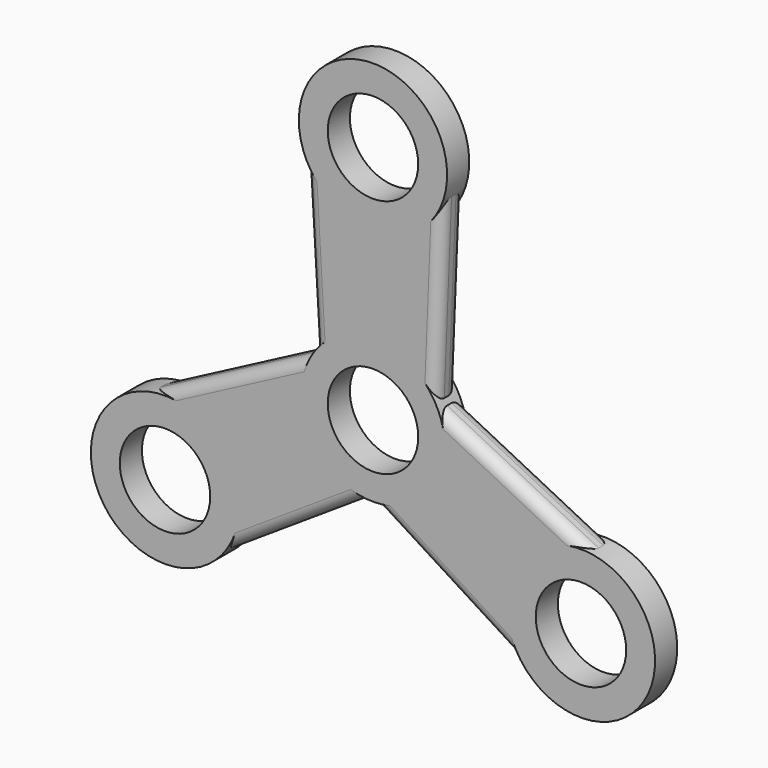
from build123d import *

# Parameters (mm, degrees)
F0_R     = 10.3857806341
F0_R_2   = 10.3786468128
F1_DEPTH = 6.35
F2_R     = 2.54
F3_R     = 2.54


with BuildPart() as f1:
    # F0 (on Front) → F1 (new body)
    with BuildSketch(Plane.XZ):
        with BuildLine():
            Line((14.3325142405, 8.0979142801), (16.0034097486, 49.3313107205))
            ThreePointArc((16.0034097486, 49.3313107205), (-0.4850827816, 72.1303829543), (-15.6475718809, 48.4287584328))
            Line((-15.6475718809, 48.4287584328), (-13.390063044, 9.576188794))
            ThreePointArc((-13.390063044, 9.576188794), (-13.7979919658, 8.9784518628), (-14.1792566045, 8.3633642923))
            ThreePointArc((-14.1792566045, 8.3633642923), (-14.6745633827, -7.4601856322), (-1.598191245, -16.3842291514))
            ThreePointArc((-1.598191245, -16.3842291514), (-0.876571417, -16.438637495), (-0.153257636, -16.4612785724))
            ThreePointArc((-0.153257636, -16.4612785724), (13.7979919658, -8.9784518628), (14.988254289, 6.8080403574))
            ThreePointArc((14.988254289, 6.8080403574), (14.6745633827, 7.4601856322), (14.3325142405, 8.0979142801))
        make_face()
        Circle(F0_R, mode=Mode.SUBTRACT)
        with Locations((0, 55.1193505526)):
            Circle(F0_R_2, mode=Mode.SUBTRACT)
        with BuildLine():
            Line((49.764321017, -10.66318446), (14.988254289, 6.8080403574))
            ThreePointArc((14.988254289, 6.8080403574), (13.7979919658, -8.9784518628), (-0.153257636, -16.4612785724))
            Line((-0.153257636, -16.4612785724), (34.7204634116, -38.5250147497))
            ThreePointArc((34.7204634116, -38.5250147497), (62.709285414, -35.6450974653), (49.764321017, -10.66318446))
        make_face()
        with Locations((47.7347578186, -27.5596752763)):
            Circle(F0_R_2, mode=Mode.SUBTRACT)
        with BuildLine():
            ThreePointArc((-1.598191245, -16.3842291514), (-14.6745633827, -7.4601856322), (-14.1792566045, 8.3633642923))
            Line((-14.1792566045, 8.3633642923), (-50.7238731603, -10.8062959708))
            ThreePointArc((-50.7238731603, -10.8062959708), (-62.2242026323, -36.485285489), (-34.1167491361, -37.7655739728))
            Line((-34.1167491361, -37.7655739728), (-1.598191245, -16.3842291514))
        make_face()
        with Locations((-47.7347578186, -27.5596752763)):
            Circle(F0_R_2, mode=Mode.SUBTRACT)
    extrude(amount=F1_DEPTH)

    # F2
    f2_edges = [f1.edges().sort_by_distance(p)[0] for p in [
        (15.167962, 0, 28.714613),
        (-14.518817, 0, 29.002474),
        (32.376288, 0, -1.927572),
        (17.283603, 0, -27.493147),
        (-17.85747, 0, -27.074902),
        (-32.451565, 0, -1.221466),
    ]]
    fillet(f2_edges, radius=F2_R)

    # F3
    f3_edges = [f1.edges().sort_by_distance(p)[0] for p in [
        (15.167962, -6.35, 28.714613),
        (-14.518817, -6.35, 29.002474),
        (-32.451565, -6.35, -1.221466),
        (-17.85747, -6.35, -27.074902),
        (17.283603, -6.35, -27.493147),
        (32.376288, -6.35, -1.927572),
    ]]
    fillet(f3_edges, radius=F3_R)


solid = f1.part
